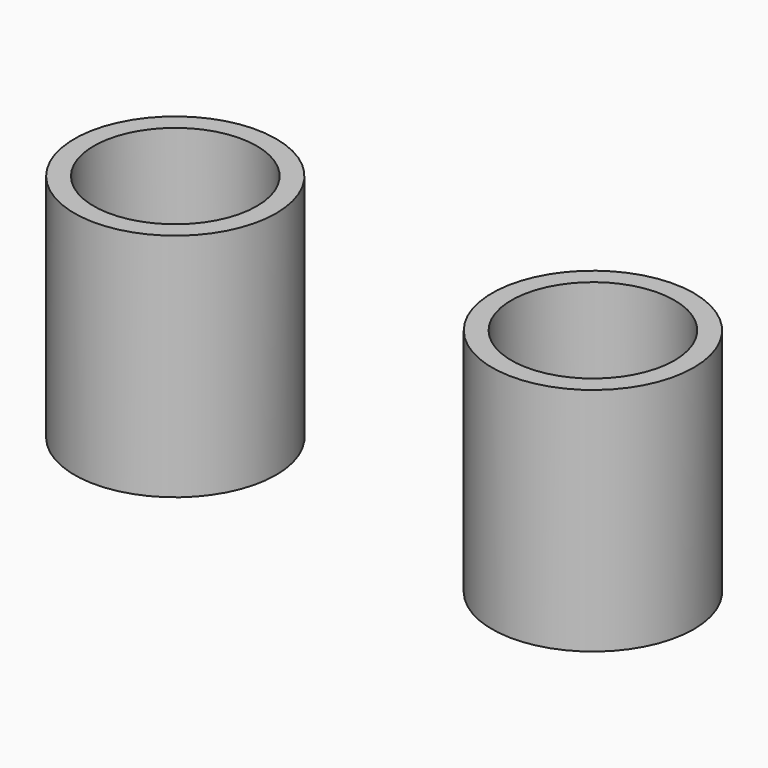
from build123d import *

# Parameters (mm, degrees)
F0_R     = 14.910632
F1_DEPTH = 34.036
F2_R     = 12.046136
F3_DEPTH = 32.766


with BuildPart() as f1:
    # F0 (on Top) → F1 (new body)
    with BuildSketch(Plane.XY):
        with Locations((-29.011261, 0)):
            Circle(F0_R)
    extrude(amount=-F1_DEPTH)

    # F2 (on Top) → F3 (cut)
    with BuildSketch(Plane.XY):
        with Locations((-29.011261, 0)):
            Circle(F2_R)
    extrude(amount=-F3_DEPTH, mode=Mode.SUBTRACT)


with BuildPart() as f4_1:
    # F4: copy of F1
    add(f1.part.moved(Location((61.722, 0, 0))))


solid = Compound([f1.part, f4_1.part])
